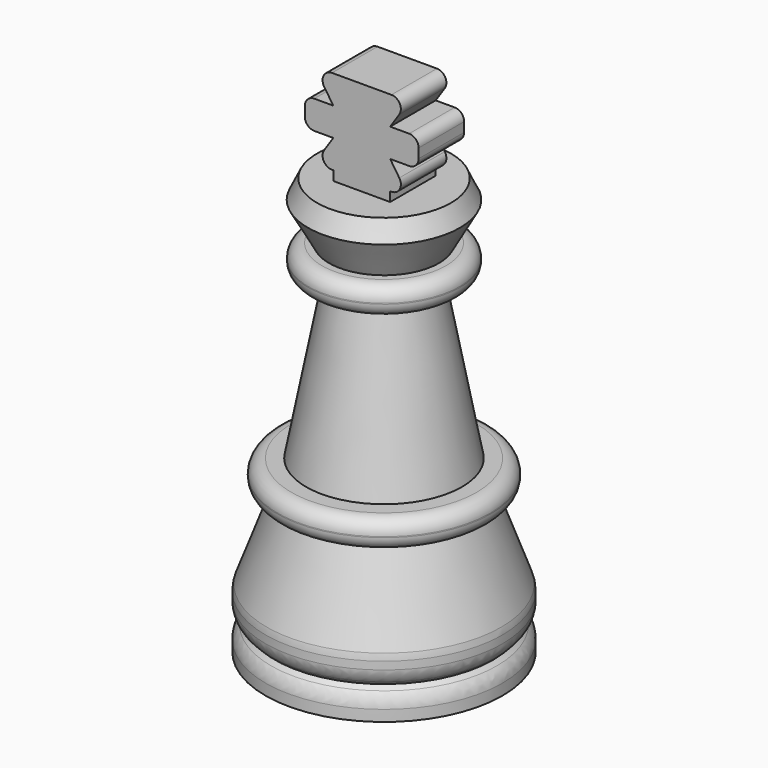
from build123d import *

# Parameters (mm, degrees)
FILLET008_R  = 1.45
FILLET009_R  = 2
PAD002_DEPTH = 3
FILLET014_R  = 1


with BuildPart() as part:
    # Sketch004 → Revolution004 (revolve)
    with BuildSketch(Plane.XZ):
        Polygon((0, 4.595736), (4.729655, 4.595736), (4.729655, 0), (12.5, 0), (12.5, 2), (11.5, 3), (12.5, 4), (12.5, 6), (9.224268, 15), (11.224268, 15), (11.224268, 18), (8.224268, 18), (5, 35), (8, 35), (8, 38), (5.800735, 38), (8.020864, 42), (7.064007, 44), (0, 44), align=None)
    revolve(axis=Axis((0, 0, 0), (0, 0, 1)))

    # Fillet008
    fillet008_edges = [part.edges().sort_by_distance(p)[0] for p in [
        (-11.224268, 0, 18),
        (-11.224268, 0, 15),
        (-8, 0, 38),
        (-8, 0, 35),
    ]]
    fillet(fillet008_edges, radius=FILLET008_R)

    # Fillet009
    fillet009_edges = [part.edges().sort_by_distance(p)[0] for p in [
        (-12.5, 0, 6),
        (-12.5, 0, 4),
        (-12.5, 0, 2),
    ]]
    fillet(fillet009_edges, radius=FILLET009_R)

    # Sketch011 → Pad002 (new body, symmetric)
    with BuildSketch(Plane.XZ):
        Polygon((-4.949239, 45), (-2.949239, 45), (-2.949239, 44), (3.050761, 44), (3.050761, 45), (5.050761, 45), (3.050761, 48), (6.050761, 48), (6.050761, 51), (3.050761, 51), (5.050761, 54), (-4.949239, 54), (-2.949239, 51), (-5.949239, 51), (-5.949239, 48), (-2.949239, 48), align=None)
    extrude(amount=PAD002_DEPTH, both=True)

    # Fillet014
    fillet014_edges = [part.edges().sort_by_distance(p)[0] for p in [
        (-4.949239, 0, 45),
        (-5.949239, 0, 48),
        (-5.949239, 0, 51),
        (-4.949239, 0, 54),
        (5.050761, 0, 54),
        (6.050761, 0, 51),
        (6.050761, 0, 48),
        (5.050761, 0, 45),
    ]]
    fillet(fillet014_edges, radius=FILLET014_R)


solid = part.part
